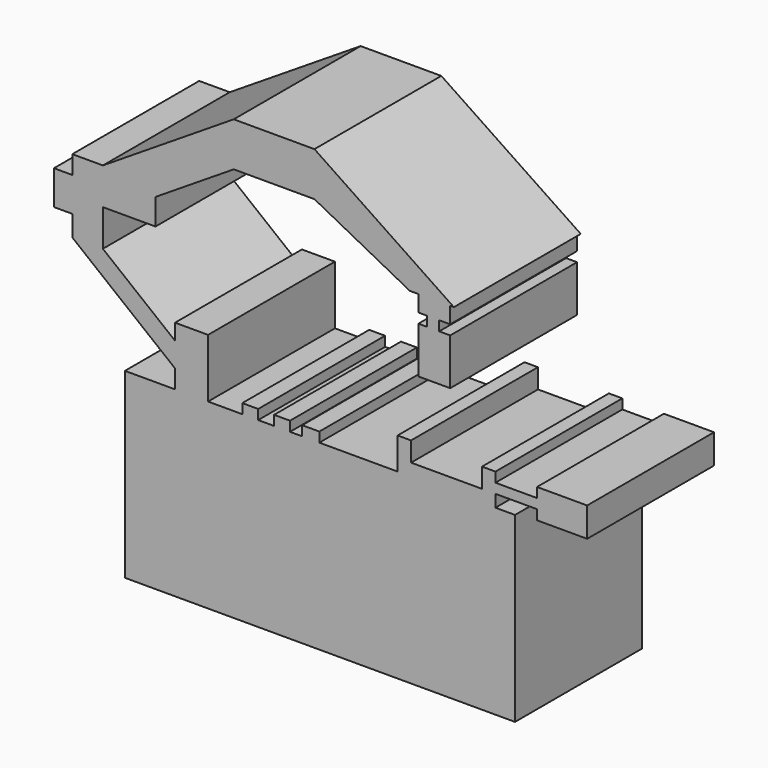
from build123d import *

# Parameters (mm, degrees)
F0_W     = 10.6028132141
F0_H     = 3.2772339182
F0_W_2   = 2.5061182678
F0_H_2   = 1.542228274
F0_W_3   = 2.8916746378
F0_H_3   = 5.3978003561
F0_W_4   = 2.6988983154
F0_W_5   = 6.5544687677
F0_H_4   = 1.5422292054
F0_W_6   = 12.7233788371
F0_H_5   = 6.9400221109
F1_DEPTH = 25


with BuildPart() as f1:
    # F0 (on Front) → F1 (new body)
    with BuildSketch(Plane.XZ):
        Polygon((-61.4963285625, 1.8313954351), (-61.4963285625, 0), (-61.4963285625, -12.0486542583), (-58.026317507, -14.3619952723), (-54.5563027263, -14.3619952723), (-50.8935153484, -12.0486542583), (-50.8935153484, 1.8313954351), align=None)
        with Locations((-56.1949219555, 3.4700123942)):
            Rectangle(F0_W, F0_H)
        Polygon((-61.4963285625, 7.1809976362), (-61.4963285625, 5.1086293533), (-50.8935153484, 5.1086293533), (-50.8935153484, 7.1809976362), (-54.5563027263, 9.1569777578), (-56.2913101166, 9.1569777578), (-58.026317507, 9.1569777578), align=None)
        Polygon((-50.8935153484, 5.1086293533), (-50.8935153484, 1.8313954351), (-50.8935153484, -12.0486542583), (-54.5563027263, -14.3619952723), (0, -14.3619952723), (0, 14.3619952723), (-3.0844560824, 14.3619952723), (-18.506731838, 14.3619952723), (-30.8445543051, 14.3619952723), (-33.5434526205, 14.3619952723), (-35.4712381959, 14.3619952723), (-37.9773564637, 14.3619952723), (-40.4834784567, 14.3619952723), (-42.9895967245, 14.3619952723), (-48.3873970807, 14.3619952723), (-50.8935153484, 14.3619952723), (-56.2913101166, 9.1569777578), (-54.5563027263, 9.1569777578), (-50.8935153484, 7.1809976362), align=None)
        Polygon((-58.026317507, -14.3619952723), (-61.4963285625, -12.0486542583), (-61.4963285625, -14.3619952723), align=None)
        Polygon((-61.4963285625, 14.3619952723), (-61.4963285625, 7.1809976362), (-58.026317507, 9.1569777578), (-56.2913101166, 9.1569777578), (-50.8935153484, 14.3619952723), (-53.5924127325, 14.3619952723), align=None)
        with Locations((-41.7365375906, 15.1331094094)):
            Rectangle(F0_W_2, F0_H_2)
        with Locations((-71.2316408753, 36.1459609121)):
            Rectangle(F0_W_3, F0_H_3)
        Polygon((-69.7858035564, 31.1435235796), (-69.7858035564, 30.1698297262), (-64.9663433433, 30.1698297262), (-64.9663433433, 35.9531827271), (-64.9663433433, 41.736535728), (-69.7858035564, 41.736535728), (-69.7858035564, 38.8448610902), (-69.7858035564, 33.447060734), align=None)
        Polygon((-69.7858035564, 30.1698297262), (-53.5924127325, 17.2700114231), (-53.5924127325, 21.1092419922), (-64.9663433433, 30.1698297262), align=None)
        Polygon((-53.5924127325, 17.2700114231), (-53.5924127325, 14.3619952723), (-50.8935153484, 14.3619952723), (-48.3873970807, 14.3619952723), (-48.3873970807, 23.6153621227), (-53.5924127325, 23.6153621227), (-53.5924127325, 21.1092419922), align=None)
        with Locations((-36.7242973298, 15.1331094094)):
            Rectangle(F0_W_2, F0_H_2)
        with Locations((-32.1940034628, 15.1331094094)):
            Rectangle(F0_W_4, F0_H_2)
        Polygon((-18.506731838, 14.3619952723), (-3.0844560824, 14.3619952723), (-3.0844560824, 16.2897799164), (-3.0844560824, 17.8320091218), (-3.0844560824, 19.3742364645), (-5.2050179802, 19.3742364645), (-5.2050179802, 16.2897799164), (-16.3861699402, 16.2897799164), (-16.3861699402, 19.3742364645), (-18.506731838, 19.3742364645), align=None)
        with Locations((0.1927783014, 17.0608945191)):
            Rectangle(F0_W_5, F0_H_4)
        Polygon((3.4700126853, 17.8320091218), (3.4700126853, 16.2897799164), (3.4700126853, 14.7475525737), (11.3739287481, 14.7475525737), (11.3739287481, 19.3742364645), (3.4700126853, 19.3742364645), align=None)
        Polygon((-10.2172587067, 37.4954119325), (-10.2172587067, 40.0645905817), (-15.2294989675, 40.0645905817), (-15.2294989675, 37.4954119325), (-13.8800498098, 37.4954119325), (-13.8800498098, 35.9531827271), (-15.2294989675, 35.9531827271), (-15.2294989675, 28.6276023835), (-12.7233788371, 28.6276023835), (-10.2172587067, 28.6276023835), (-10.2172587067, 35.9531827271), (-11.9522651657, 35.9531827271), (-11.9522651657, 37.4954119325), align=None)
        Polygon((-9.6389232203, 40.0645905817), (-31.6156670451, 54.8454709351), (-31.6156670451, 47.9054488242), (-16.5789481252, 40.0645905817), (-15.2294989675, 40.0645905817), (-10.2172587067, 40.0645905817), align=None)
        with Locations((-37.9773564637, 51.3754598796)):
            Rectangle(F0_W_6, F0_H_5)
        Polygon((-44.3390458822, 54.8454709351), (-64.9663433433, 41.736535728), (-56.6768683493, 41.736535728), (-56.6768683493, 40.0645905817), (-44.3390458822, 47.9054488242), align=None)
        Polygon((-64.9663433433, 41.736535728), (-64.9663433433, 35.9531827271), (-56.6768683493, 35.9531827271), (-56.6768683493, 40.0645905817), (-56.6768683493, 41.736535728), align=None)
    extrude(amount=F1_DEPTH)


solid = f1.part
